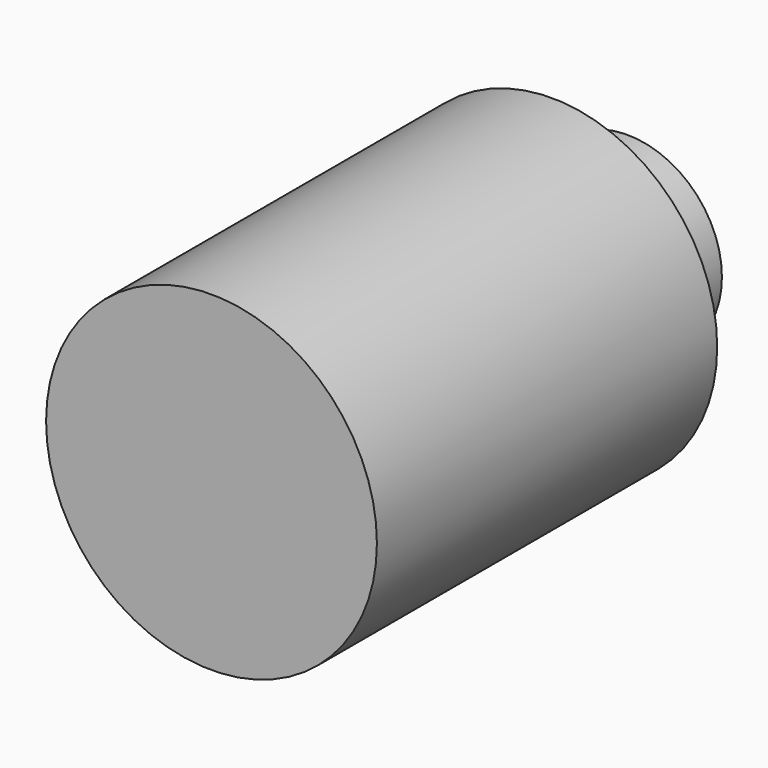
from build123d import *

# Parameters (mm, degrees)
F0_R     = 22.225
F1_DEPTH = 57.15
F2_R     = 12.7
F3_DEPTH = 12.7


with BuildPart() as f1:
    # F0 (on Front) → F1 (new body)
    with BuildSketch(Plane.XZ):
        Circle(F0_R)
    extrude(amount=F1_DEPTH)

    # F2 (on Front) → F3 (join)
    with BuildSketch(Plane.XZ):
        Circle(F2_R)
    extrude(amount=-F3_DEPTH)


solid = f1.part
